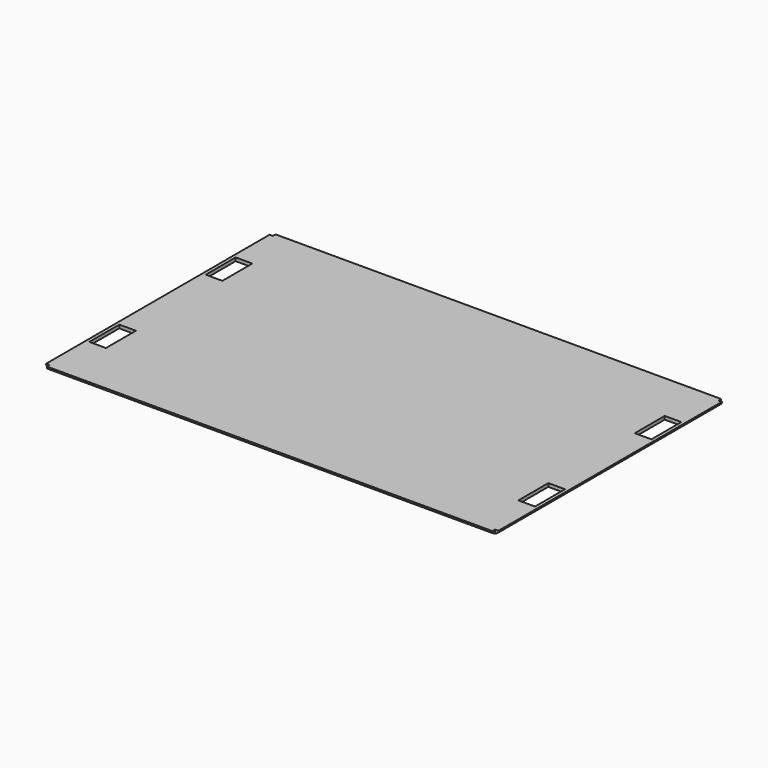
from build123d import *

# Parameters (mm, degrees)
F0_W     = 268
F0_H     = 168
F1_DEPTH = 2
F3_DEPTH = 268
F6_DEPTH = 168
F7_DEPTH = 268
F8_W     = 10
F8_H     = 22.5
F9_DEPTH = 25


with BuildPart() as f1:
    # F0 (on Top) → F1 (new body)
    with BuildSketch(Plane.XY):
        with Locations((134, -84)):
            Rectangle(F0_W, F0_H)
    extrude(amount=F1_DEPTH)

    # F2 (on face) → F3 (join)
    with BuildSketch(Plane.YZ.offset(268)):
        with BuildLine():
            Line((-168, 2), (-170, 2))
            ThreePointArc((-170, 2), (-169.414214, 0.585786), (-168, 0))
            Line((-168, 0), (-168, 2))
        make_face()
    extrude(amount=-F3_DEPTH)

    # F4 (on face) → F6 (join)
    with BuildSketch(Plane(origin=(0, 0, 0), x_dir=(-1, 0, 0), z_dir=(0, 1, 0))):
        with BuildLine():
            Line((0, 2), (0, 0))
            ThreePointArc((0, 0), (1.414214, 0.585786), (2, 2))
            Line((2, 2), (0, 2))
        make_face()
        with BuildLine():
            Line((-268, 2), (-270, 2))
            ThreePointArc((-270, 2), (-269.414214, 0.585786), (-268, 0))
            Line((-268, 0), (-268, 2))
        make_face()
    extrude(amount=-F6_DEPTH)

    # F5 (on face) → F7 (join)
    with BuildSketch(Plane.YZ.offset(268)):
        with BuildLine():
            Line((0, 2), (0, 0))
            ThreePointArc((0, 0), (1.414214, 0.585786), (2, 2))
            Line((2, 2), (0, 2))
        make_face()
    extrude(amount=-F7_DEPTH)

    # F8 (on face) → F9 (cut)
    with BuildSketch(Plane.XY.offset(2)):
        with Locations((263, -39.25)):
            Rectangle(F8_W, F8_H)
        with Locations((263, -126.75)):
            Rectangle(F8_W, F8_H)
        with Locations((5, -126.75)):
            Rectangle(F8_W, F8_H)
        with Locations((5, -39.25)):
            Rectangle(F8_W, F8_H)
    extrude(amount=-F9_DEPTH, mode=Mode.SUBTRACT)


solid = f1.part
